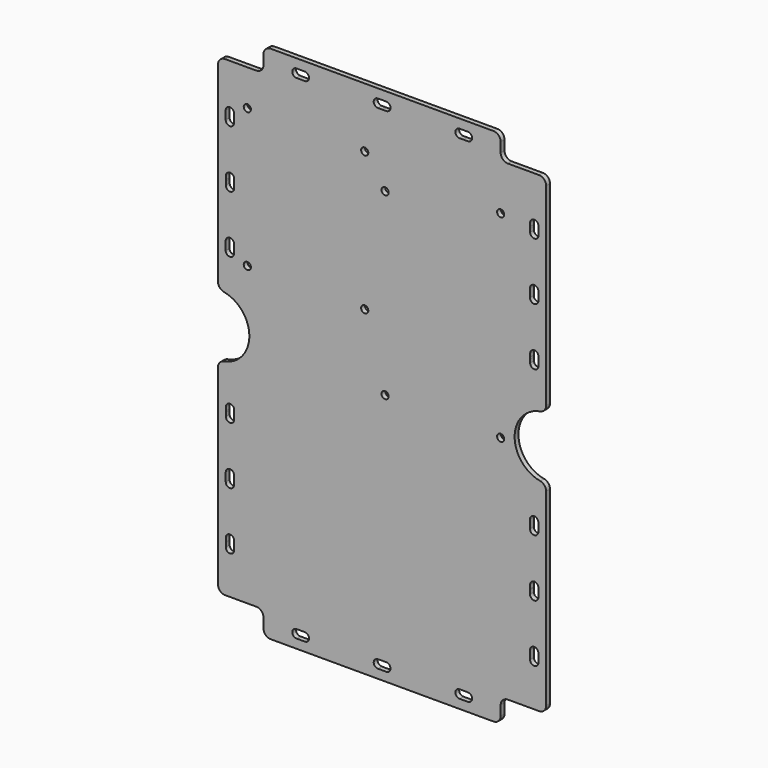
from build123d import *

# Parameters (mm, degrees)
F0_R     = 1.5
F1_DEPTH = 2


with BuildPart() as f1:
    # F0 (on Front) → F1 (new body)
    with BuildSketch(Plane.XZ):
        with BuildLine():
            ThreePointArc((-46.5, 108.5), (-48.62132, 107.62132), (-49.5, 105.5))
            Line((-49.5, 105.5), (-49.5, 101.5))
            ThreePointArc((-49.5, 101.5), (-50.37868, 99.37868), (-52.5, 98.5))
            Line((-52.5, 98.5), (-65.5, 98.5))
            ThreePointArc((-65.5, 98.5), (-67.62132, 97.62132), (-68.5, 95.5))
            Line((-68.5, 95.5), (-68.5, 15.731583))
            ThreePointArc((-68.5, 15.731583), (-67.806689, 13.813462), (-66.047208, 12.781911))
            ThreePointArc((-66.047208, 12.781911), (-55.418443, 0), (-66.047208, -12.781911))
            ThreePointArc((-66.047208, -12.781911), (-67.806689, -13.813462), (-68.5, -15.731583))
            Line((-68.5, -15.731583), (-68.5, -95.5))
            ThreePointArc((-68.5, -95.5), (-67.62132, -97.62132), (-65.5, -98.5))
            Line((-65.5, -98.5), (-52.5, -98.5))
            ThreePointArc((-52.5, -98.5), (-50.37868, -99.37868), (-49.5, -101.5))
            Line((-49.5, -101.5), (-49.5, -105.5))
            ThreePointArc((-49.5, -105.5), (-48.62132, -107.62132), (-46.5, -108.5))
            Line((-46.5, -108.5), (0, -108.5))
            Line((0, -108.5), (46.5, -108.5))
            ThreePointArc((46.5, -108.5), (48.62132, -107.62132), (49.5, -105.5))
            Line((49.5, -105.5), (49.5, -101.5))
            ThreePointArc((49.5, -101.5), (50.37868, -99.37868), (52.5, -98.5))
            Line((52.5, -98.5), (65.5, -98.5))
            ThreePointArc((65.5, -98.5), (67.62132, -97.62132), (68.5, -95.5))
            Line((68.5, -95.5), (68.5, -16.733201))
            ThreePointArc((68.5, -16.733201), (67.800895, -14.808134), (66.029412, -13.780283))
            ThreePointArc((66.029412, -13.780283), (55.323529, -0.984306), (66.029412, 11.811671))
            ThreePointArc((66.029412, 11.811671), (67.800895, 12.839522), (68.5, 14.764589))
            Line((68.5, 14.764589), (68.5, 95.5))
            ThreePointArc((68.5, 95.5), (67.62132, 97.62132), (65.5, 98.5))
            Line((65.5, 98.5), (52.5, 98.5))
            ThreePointArc((52.5, 98.5), (50.37868, 99.37868), (49.5, 101.5))
            Line((49.5, 101.5), (49.5, 105.5))
            ThreePointArc((49.5, 105.5), (48.62132, 107.62132), (46.5, 108.5))
            Line((46.5, 108.5), (0, 108.5))
            Line((0, 108.5), (-46.5, 108.5))
        make_face()
        with BuildLine():
            ThreePointArc((-65.246411, -79.112023), (-65.25, -79), (-65.246411, -78.887977))
            Line((-65.246411, -78.887977), (-65.246411, -77.275355))
            ThreePointArc((-65.246411, -77.275355), (-63.496411, -75.525355), (-61.746411, -77.275355))
            Line((-61.746411, -77.275355), (-61.746411, -80.77472))
            ThreePointArc((-61.746411, -80.77472), (-63.496411, -82.52472), (-65.246411, -80.77472))
            Line((-65.246411, -80.77472), (-65.246411, -79.112023))
        make_face(mode=Mode.SUBTRACT)
        with BuildLine():
            ThreePointArc((-61.760355, -54.809911), (-61.752591, -54.904814), (-61.75, -55))
            ThreePointArc((-61.75, -55), (-61.752591, -55.095186), (-61.760355, -55.190089))
            Line((-61.760355, -55.190089), (-61.760355, -56.767444))
            ThreePointArc((-61.760355, -56.767444), (-63.510355, -58.517444), (-65.260355, -56.767444))
            Line((-65.260355, -56.767444), (-65.260355, -53.26808))
            ThreePointArc((-65.260355, -53.26808), (-63.510355, -51.51808), (-61.760355, -53.26808))
            Line((-61.760355, -53.26808), (-61.760355, -54.809911))
        make_face(mode=Mode.SUBTRACT)
        with BuildLine():
            Line((-35.75, -101.25), (-34, -101.25))
            Line((-34, -101.25), (-32.25, -101.25))
            ThreePointArc((-32.25, -101.25), (-30.5, -103), (-32.25, -104.75))
            Line((-32.25, -104.75), (-34, -104.75))
            Line((-34, -104.75), (-35.75, -104.75))
            ThreePointArc((-35.75, -104.75), (-37.5, -103), (-35.75, -101.25))
        make_face(mode=Mode.SUBTRACT)
        with BuildLine():
            ThreePointArc((-65.227546, -31.279437), (-65.25, -31), (-65.227546, -30.720563))
            Line((-65.227546, -30.720563), (-65.227546, -29.249952))
            ThreePointArc((-65.227546, -29.249952), (-63.477546, -27.499952), (-61.727546, -29.249952))
            Line((-61.727546, -29.249952), (-61.727546, -32.749317))
            ThreePointArc((-61.727546, -32.749317), (-63.477546, -34.499317), (-65.227546, -32.749317))
            Line((-65.227546, -32.749317), (-65.227546, -31.279437))
        make_face(mode=Mode.SUBTRACT)
        with BuildLine():
            ThreePointArc((-0.281149, -101.272732), (0, -101.25), (0.281149, -101.272732))
            Line((0.281149, -101.272732), (1.756665, -101.272732))
            ThreePointArc((1.756665, -101.272732), (3.506665, -103.022732), (1.756665, -104.772732))
            Line((1.756665, -104.772732), (-1.743335, -104.772732))
            ThreePointArc((-1.743335, -104.772732), (-3.493335, -103.022732), (-1.743335, -101.272732))
            Line((-1.743335, -101.272732), (-0.281149, -101.272732))
        make_face(mode=Mode.SUBTRACT)
        with BuildLine():
            ThreePointArc((33.927435, -101.251505), (34, -101.25), (34.072565, -101.251505))
            Line((34.072565, -101.251505), (35.828993, -101.251505))
            ThreePointArc((35.828993, -101.251505), (37.578993, -103.001505), (35.828993, -104.751505))
            Line((35.828993, -104.751505), (32.328993, -104.751505))
            ThreePointArc((32.328993, -104.751505), (30.578993, -103.001505), (32.328993, -101.251505))
            Line((32.328993, -101.251505), (33.927435, -101.251505))
        make_face(mode=Mode.SUBTRACT)
        with BuildLine():
            ThreePointArc((65.246411, -78.887977), (65.249102, -78.94396), (65.25, -79))
            ThreePointArc((65.25, -79), (65.249102, -79.05604), (65.246411, -79.112023))
            Line((65.246411, -79.112023), (65.246411, -80.77472))
            ThreePointArc((65.246411, -80.77472), (63.496411, -82.52472), (61.746411, -80.77472))
            Line((61.746411, -80.77472), (61.746411, -77.275355))
            ThreePointArc((61.746411, -77.275355), (63.496411, -75.525355), (65.246411, -77.275355))
            Line((65.246411, -77.275355), (65.246411, -78.887977))
        make_face(mode=Mode.SUBTRACT)
        with BuildLine():
            ThreePointArc((61.760355, -55.190089), (61.75, -55), (61.760355, -54.809911))
            Line((61.760355, -54.809911), (61.760355, -53.26808))
            ThreePointArc((61.760355, -53.26808), (63.510355, -51.51808), (65.260355, -53.26808))
            Line((65.260355, -53.26808), (65.260355, -56.767444))
            ThreePointArc((65.260355, -56.767444), (63.510355, -58.517444), (61.760355, -56.767444))
            Line((61.760355, -56.767444), (61.760355, -55.190089))
        make_face(mode=Mode.SUBTRACT)
        with Locations((1.25, -3.244149)):
            Circle(F0_R, mode=Mode.SUBTRACT)
        with BuildLine():
            ThreePointArc((65.227546, -30.720563), (65.244377, -30.859831), (65.25, -31))
            ThreePointArc((65.25, -31), (65.244377, -31.140169), (65.227546, -31.279437))
            Line((65.227546, -31.279437), (65.227546, -32.749317))
            ThreePointArc((65.227546, -32.749317), (63.477546, -34.499317), (61.727546, -32.749317))
            Line((61.727546, -32.749317), (61.727546, -29.249952))
            ThreePointArc((61.727546, -29.249952), (63.477546, -27.499952), (65.227546, -29.249952))
            Line((65.227546, -29.249952), (65.227546, -30.720563))
        make_face(mode=Mode.SUBTRACT)
        with Locations((49.5, -3.244149)):
            Circle(F0_R, mode=Mode.SUBTRACT)
        with Locations((-56.25, 25.5)):
            Circle(F0_R, mode=Mode.SUBTRACT)
        with BuildLine():
            ThreePointArc((-61.793502, 30.38777), (-61.76091, 30.195101), (-61.75, 30))
            ThreePointArc((-61.75, 30), (-61.76091, 29.804899), (-61.793502, 29.61223))
            Line((-61.793502, 29.61223), (-61.793502, 28.240838))
            ThreePointArc((-61.793502, 28.240838), (-63.543502, 26.490838), (-65.293502, 28.240838))
            Line((-65.293502, 28.240838), (-65.293502, 31.740202))
            ThreePointArc((-65.293502, 31.740202), (-63.543502, 33.490202), (-61.793502, 31.740202))
            Line((-61.793502, 31.740202), (-61.793502, 30.38777))
        make_face(mode=Mode.SUBTRACT)
        with BuildLine():
            ThreePointArc((-65.230854, 53.741844), (-65.25, 54), (-65.230854, 54.258156))
            Line((-65.230854, 54.258156), (-65.230854, 55.701408))
            ThreePointArc((-65.230854, 55.701408), (-63.480854, 57.451408), (-61.730854, 55.701408))
            Line((-61.730854, 55.701408), (-61.730854, 52.202043))
            ThreePointArc((-61.730854, 52.202043), (-63.480854, 50.452043), (-65.230854, 52.202043))
            Line((-65.230854, 52.202043), (-65.230854, 53.741844))
        make_face(mode=Mode.SUBTRACT)
        with Locations((-7.25, 25.5)):
            Circle(F0_R, mode=Mode.SUBTRACT)
        with BuildLine():
            Line((-61.783352, 79.749682), (-61.783352, 78.340028))
            ThreePointArc((-61.783352, 78.340028), (-61.758358, 78.17083), (-61.75, 78))
            ThreePointArc((-61.75, 78), (-61.758358, 77.82917), (-61.783352, 77.659972))
            Line((-61.783352, 77.659972), (-61.783352, 76.250318))
            ThreePointArc((-61.783352, 76.250318), (-63.533352, 74.500318), (-65.283352, 76.250318))
            Line((-65.283352, 76.250318), (-65.283352, 79.749682))
            ThreePointArc((-65.283352, 79.749682), (-63.533352, 81.499682), (-61.783352, 79.749682))
        make_face(mode=Mode.SUBTRACT)
        with Locations((-56.25, 83.5)):
            Circle(F0_R, mode=Mode.SUBTRACT)
        with BuildLine():
            Line((-35.75, 104.75), (-34, 104.75))
            Line((-34, 104.75), (-32.25, 104.75))
            ThreePointArc((-32.25, 104.75), (-30.5, 103), (-32.25, 101.25))
            Line((-32.25, 101.25), (-34, 101.25))
            Line((-34, 101.25), (-35.75, 101.25))
            ThreePointArc((-35.75, 101.25), (-37.5, 103), (-35.75, 104.75))
        make_face(mode=Mode.SUBTRACT)
        with Locations((-7.25, 83.5)):
            Circle(F0_R, mode=Mode.SUBTRACT)
        with BuildLine():
            ThreePointArc((61.793502, 29.61223), (61.75, 30), (61.793502, 30.38777))
            Line((61.793502, 30.38777), (61.793502, 31.740202))
            ThreePointArc((61.793502, 31.740202), (63.543502, 33.490202), (65.293502, 31.740202))
            Line((65.293502, 31.740202), (65.293502, 28.240838))
            ThreePointArc((65.293502, 28.240838), (63.543502, 26.490838), (61.793502, 28.240838))
            Line((61.793502, 28.240838), (61.793502, 29.61223))
        make_face(mode=Mode.SUBTRACT)
        with BuildLine():
            ThreePointArc((65.230854, 54.258156), (65.245207, 54.129432), (65.25, 54))
            ThreePointArc((65.25, 54), (65.245207, 53.870568), (65.230854, 53.741844))
            Line((65.230854, 53.741844), (65.230854, 52.202043))
            ThreePointArc((65.230854, 52.202043), (63.480854, 50.452043), (61.730854, 52.202043))
            Line((61.730854, 52.202043), (61.730854, 55.701408))
            ThreePointArc((61.730854, 55.701408), (63.480854, 57.451408), (65.230854, 55.701408))
            Line((65.230854, 55.701408), (65.230854, 54.258156))
        make_face(mode=Mode.SUBTRACT)
        with Locations((1.25, 71.655851)):
            Circle(F0_R, mode=Mode.SUBTRACT)
        with BuildLine():
            ThreePointArc((0.281149, 101.272732), (0, 101.25), (-0.281149, 101.272732))
            Line((-0.281149, 101.272732), (-1.743335, 101.272732))
            ThreePointArc((-1.743335, 101.272732), (-3.493335, 103.022732), (-1.743335, 104.772732))
            Line((-1.743335, 104.772732), (1.756665, 104.772732))
            ThreePointArc((1.756665, 104.772732), (3.506665, 103.022732), (1.756665, 101.272732))
            Line((1.756665, 101.272732), (0.281149, 101.272732))
        make_face(mode=Mode.SUBTRACT)
        with BuildLine():
            ThreePointArc((34.072565, 101.251505), (34, 101.25), (33.927435, 101.251505))
            Line((33.927435, 101.251505), (32.328993, 101.251505))
            ThreePointArc((32.328993, 101.251505), (30.578993, 103.001505), (32.328993, 104.751505))
            Line((32.328993, 104.751505), (35.828993, 104.751505))
            ThreePointArc((35.828993, 104.751505), (37.578993, 103.001505), (35.828993, 101.251505))
            Line((35.828993, 101.251505), (34.072565, 101.251505))
        make_face(mode=Mode.SUBTRACT)
        with Locations((49.5, 79.255851)):
            Circle(F0_R, mode=Mode.SUBTRACT)
        with BuildLine():
            ThreePointArc((61.783352, 77.659972), (61.75, 78), (61.783352, 78.340028))
            Line((61.783352, 78.340028), (61.783352, 79.749682))
            ThreePointArc((61.783352, 79.749682), (63.533352, 81.499682), (65.283352, 79.749682))
            Line((65.283352, 79.749682), (65.283352, 76.250318))
            ThreePointArc((65.283352, 76.250318), (63.533352, 74.500318), (61.783352, 76.250318))
            Line((61.783352, 76.250318), (61.783352, 77.659972))
        make_face(mode=Mode.SUBTRACT)
    extrude(amount=F1_DEPTH)


solid = f1.part
